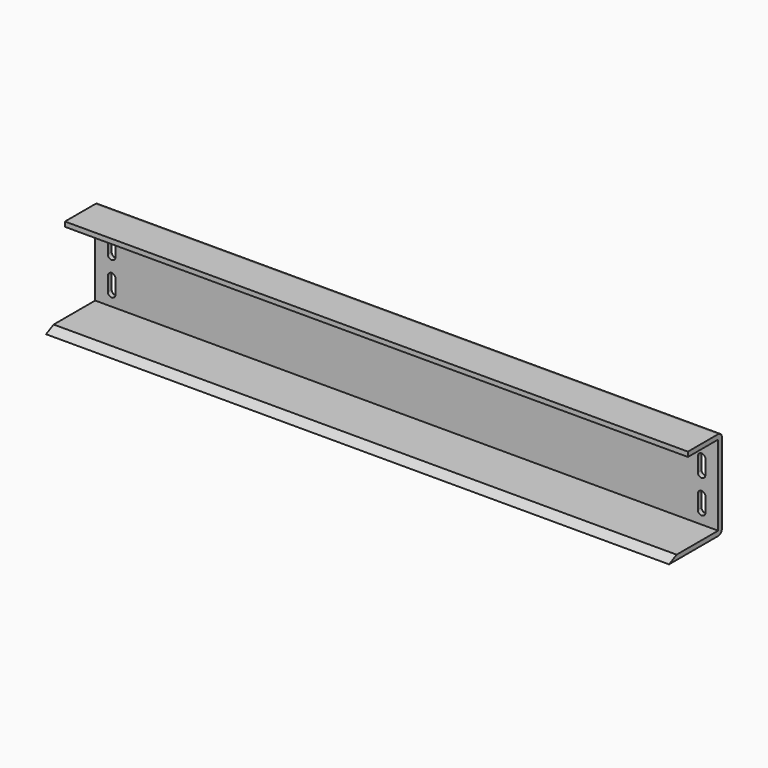
from build123d import *

# Parameters (mm, degrees)
F1_DEPTH = 419.1
F3_DEPTH = 3.176


with BuildPart() as f1:
    # F0 (on Right) → F1 (new body)
    with BuildSketch(Plane.YZ):
        with BuildLine():
            Line((-38.1, 3.175), (-44.45, 0))
            Line((-44.45, 0), (-3.175, 0))
            ThreePointArc((-3.175, 0), (-0.9299359697, 0.9299359697), (0, 3.175))
            Line((0, 3.175), (0, 50.8))
            Line((0, 50.8), (-3.175, 50.8))
            Line((-3.175, 50.8), (-3.175, 3.175))
            Line((-3.175, 3.175), (-38.1, 3.175))
        make_face()
        with BuildLine():
            Line((-3.175, 50.8), (0, 50.8))
            Line((0, 50.8), (0, 57.15))
            ThreePointArc((0, 57.15), (-0.9299359697, 59.3950640303), (-3.175, 60.325))
            Line((-3.175, 60.325), (-28.575, 60.325))
            Line((-28.575, 60.325), (-28.575, 57.15))
            Line((-28.575, 57.15), (-3.175, 57.15))
            Line((-3.175, 57.15), (-3.175, 50.8))
        make_face()
    extrude(amount=F1_DEPTH)

    # F2 (on face) → F3 (cut, through all)
    with BuildSketch(Plane.XZ.offset(3.175)):
        with BuildLine():
            ThreePointArc((8.5598, 33.3375), (11.1125, 30.7848), (13.6652, 33.3375))
            Line((13.6652, 33.3375), (13.6652, 42.8625))
            ThreePointArc((13.6652, 42.8625), (11.1125, 45.4152), (8.5598, 42.8625))
            Line((8.5598, 42.8625), (8.5598, 33.3375))
        make_face()
        with BuildLine():
            ThreePointArc((13.6652, 20.6375), (11.1125, 23.1902), (8.5598, 20.6375))
            Line((8.5598, 20.6375), (8.5598, 11.1125))
            ThreePointArc((8.5598, 11.1125), (11.1125, 8.5598), (13.6652, 11.1125))
            Line((13.6652, 11.1125), (13.6652, 20.6375))
        make_face()
        with BuildLine():
            Line((405.4348, 42.8625), (405.4348, 33.3375))
            ThreePointArc((405.4348, 33.3375), (407.9875, 30.7848), (410.5402, 33.3375))
            Line((410.5402, 33.3375), (410.5402, 42.8625))
            ThreePointArc((410.5402, 42.8625), (407.9875, 45.4152), (405.4348, 42.8625))
        make_face()
        with BuildLine():
            ThreePointArc((405.4348, 11.1125), (407.9875, 8.5598), (410.5402, 11.1125))
            Line((410.5402, 11.1125), (410.5402, 20.6375))
            ThreePointArc((410.5402, 20.6375), (407.9875, 23.1902), (405.4348, 20.6375))
            Line((405.4348, 20.6375), (405.4348, 11.1125))
        make_face()
    extrude(amount=-F3_DEPTH, mode=Mode.SUBTRACT)


solid = f1.part
